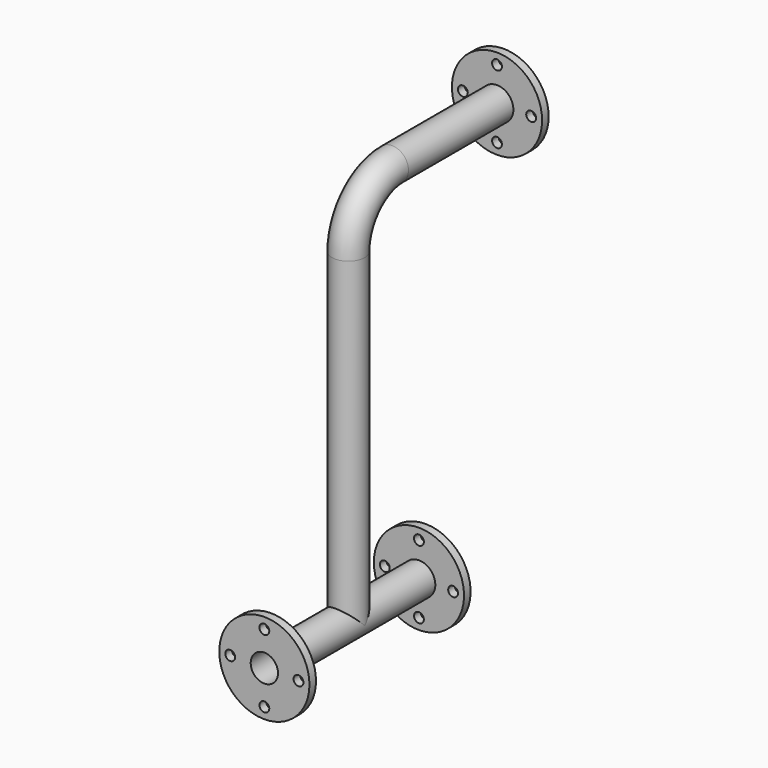
from build123d import *

# Parameters (mm, degrees)
F0_R      = 30
F3_R      = 30
F0_R_2    = 82.5
F5_DEPTH  = 15
F6_R      = 9
F7_DEPTH  = 25
F8_R      = 82.5
F8_R_2    = 9
F8_R_3    = 30
F9_DEPTH  = 15
F10_R     = 82.5
F10_R_2   = 9
F10_R_3   = 30
F11_DEPTH = 15
F12_R     = 25
F13_DEPTH = 368.6303645372


with BuildPart() as f2:
    # F2: sweep along a path in F1
    with BuildLine(Plane.YZ) as f2_path:
        Line((0, 0), (-255, 0))
        ThreePointArc((-255, 0), (-325.7106781187, -29.2893218813), (-355, -100))
        Line((-355, -100), (-355, -693))
        Line((-355, -693), (-547.1918582916, -693))
    # F0 (on Front) → F2 (sweep)
    with BuildSketch(Plane.XZ):
        Circle(F0_R)
    sweep(path=f2_path.line, transition=Transition.RIGHT)

    # F4: sweep along a path in F1
    with BuildLine(Plane.YZ) as f4_path:
        Line((-547.1918582916, -693), (-355, -693))
        Line((-355, -693), (-178.5614937544, -693))
    # F3 (on face) → F4 (sweep)
    with BuildSketch(Plane.XZ.offset(547.1918582916)):
        with Locations((0, -693)):
            Circle(F3_R)
    sweep(path=f4_path.line)

    # F0 (on Front) → F5 (join)
    with BuildSketch(Plane.XZ):
        Circle(F0_R_2)
        Circle(F0_R, mode=Mode.SUBTRACT)
    extrude(amount=F5_DEPTH)

    # F6 (on face) → F7 (cut)
    with BuildSketch(Plane.XZ):
        with Locations((0, 62.5)):
            Circle(F6_R)
        with Locations((-62.5, 0)):
            Circle(F6_R)
        with Locations((0, -62.5)):
            Circle(F6_R)
        with Locations((62.5, 0)):
            Circle(F6_R)
    extrude(amount=F7_DEPTH, mode=Mode.SUBTRACT)

    # F8 (on face) → F9 (join)
    with BuildSketch(Plane.XZ.offset(547.1918582916)):
        with Locations((0, -693)):
            Circle(F8_R)
        with Locations((0, -755.5)):
            Circle(F8_R_2, mode=Mode.SUBTRACT)
        with Locations((-62.5, -693)):
            Circle(F8_R_2, mode=Mode.SUBTRACT)
        with Locations((0, -693)):
            Circle(F8_R_3, mode=Mode.SUBTRACT)
        with Locations((62.5, -693)):
            Circle(F8_R_2, mode=Mode.SUBTRACT)
        with Locations((0, -630.5)):
            Circle(F8_R_2, mode=Mode.SUBTRACT)
    extrude(amount=-F9_DEPTH)

    # F10 (on face) → F11 (join)
    with BuildSketch(Plane(origin=(0, -178.5614937544, 0), x_dir=(-1, 0, 0), z_dir=(0, 1, 0))):
        with Locations((0, -693)):
            Circle(F10_R)
        with Locations((0, -755.5)):
            Circle(F10_R_2, mode=Mode.SUBTRACT)
        with Locations((-62.5, -693)):
            Circle(F10_R_2, mode=Mode.SUBTRACT)
        with Locations((0, -693)):
            Circle(F10_R_3, mode=Mode.SUBTRACT)
        with Locations((62.5, -693)):
            Circle(F10_R_2, mode=Mode.SUBTRACT)
        with Locations((0, -630.5)):
            Circle(F10_R_2, mode=Mode.SUBTRACT)
    extrude(amount=-F11_DEPTH)

    # F12 (on face) → F13 (cut, through all)
    with BuildSketch(Plane(origin=(0, -178.5614937544, 0), x_dir=(-1, 0, 0), z_dir=(0, 1, 0))):
        with Locations((0, -693)):
            Circle(F12_R)
    extrude(amount=-F13_DEPTH, mode=Mode.SUBTRACT)


solid = f2.part
